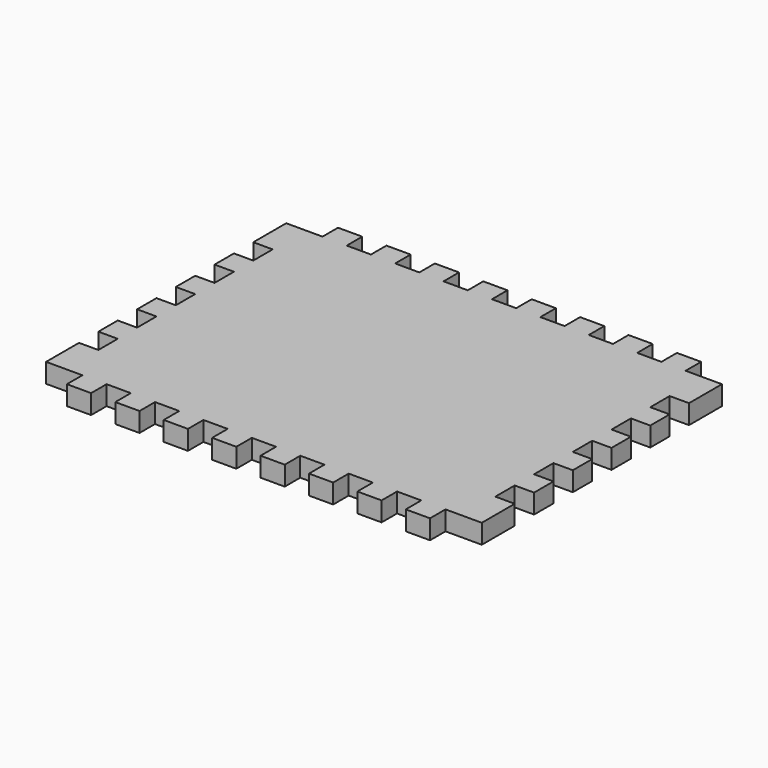
from build123d import *

# Parameters (mm, degrees)
F1_DEPTH = 10.16


with BuildPart() as f1:
    # F0 (on Top) → F1 (new body)
    with BuildSketch(Plane.XY):
        Polygon((31.75, 0), (19.05, 0), (19.05, -10.16), (0, -10.16), (0, -31.75), (10.16, -31.75), (10.16, -44.45), (0, -44.45), (0, -57.15), (10.16, -57.15), (10.16, -69.85), (0, -69.85), (0, -82.55), (10.16, -82.55), (10.16, -95.25), (0, -95.25), (0, -107.95), (10.16, -107.95), (10.16, -120.65), (0, -120.65), (0, -133.35), (10.16, -133.35), (10.16, -146.05), (0, -146.05), (0, -167.64), (19.05, -167.64), (19.05, -177.8), (31.75, -177.8), (31.75, -167.64), (44.45, -167.64), (44.45, -177.8), (57.15, -177.8), (57.15, -167.64), (69.85, -167.64), (69.85, -177.8), (82.55, -177.8), (82.55, -167.64), (95.25, -167.64), (95.25, -177.8), (107.95, -177.8), (107.95, -167.64), (120.65, -167.64), (120.65, -177.8), (133.35, -177.8), (133.35, -167.64), (146.05, -167.64), (146.05, -177.8), (158.75, -177.8), (158.75, -167.64), (171.45, -167.64), (171.45, -177.8), (184.15, -177.8), (184.15, -167.64), (196.85, -167.64), (196.85, -177.8), (209.55, -177.8), (209.55, -167.64), (228.6, -167.64), (228.6, -146.05), (218.44, -146.05), (218.44, -133.35), (228.6, -133.35), (228.6, -120.65), (218.44, -120.65), (218.44, -107.95), (228.6, -107.95), (228.6, -95.25), (218.44, -95.25), (218.44, -82.55), (228.6, -82.55), (228.6, -69.85), (218.44, -69.85), (218.44, -57.15), (228.6, -57.15), (228.6, -44.45), (218.44, -44.45), (218.44, -31.75), (228.6, -31.75), (228.6, -10.16), (209.55, -10.16), (209.55, 0), (196.85, 0), (196.85, -10.16), (184.15, -10.16), (184.15, 0), (171.45, 0), (171.45, -10.16), (158.75, -10.16), (158.75, 0), (146.05, 0), (146.05, -10.16), (133.35, -10.16), (133.35, 0), (120.65, 0), (120.65, -10.16), (107.95, -10.16), (107.95, 0), (95.25, 0), (95.25, -10.16), (82.55, -10.16), (82.55, 0), (69.85, 0), (69.85, -10.16), (57.15, -10.16), (57.15, 0), (44.45, 0), (44.45, -10.16), (31.75, -10.16), align=None)
    extrude(amount=F1_DEPTH)


solid = f1.part
